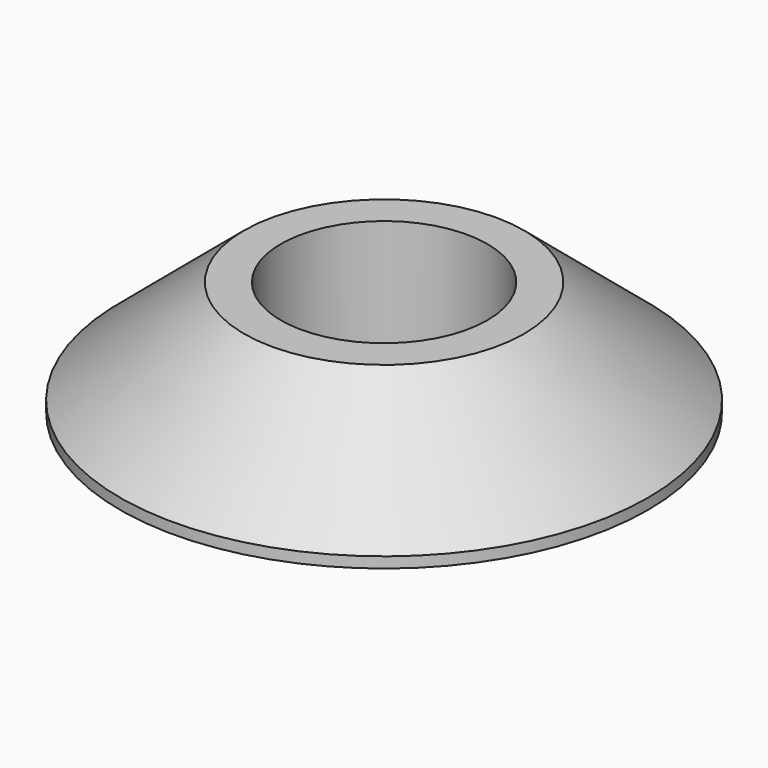
from build123d import *

# Parameters (mm, degrees)
F0_R     = 57.5
F0_R_2   = 22.5
F1_DEPTH = 25
F2_SIZE2 = 22.6556900418
F2_SIZE  = 27


with BuildPart() as f1:
    # F0 (on Top) → F1 (new body)
    with BuildSketch(Plane.XY):
        Circle(F0_R)
        Circle(F0_R_2, mode=Mode.SUBTRACT)
        Circle(F0_R)
        Circle(F0_R_2, mode=Mode.SUBTRACT)
    extrude(amount=F1_DEPTH)

    # F2
    f2_edges = [f1.edges().sort_by_distance(p)[0] for p in [
        (-57.5, 0, 25),
    ]]
    f2_side = f1.faces().sort_by_distance((-55.873654, 0, 25))[0]
    chamfer(f2_edges, length=F2_SIZE, length2=F2_SIZE2, reference=f2_side)


solid = f1.part
